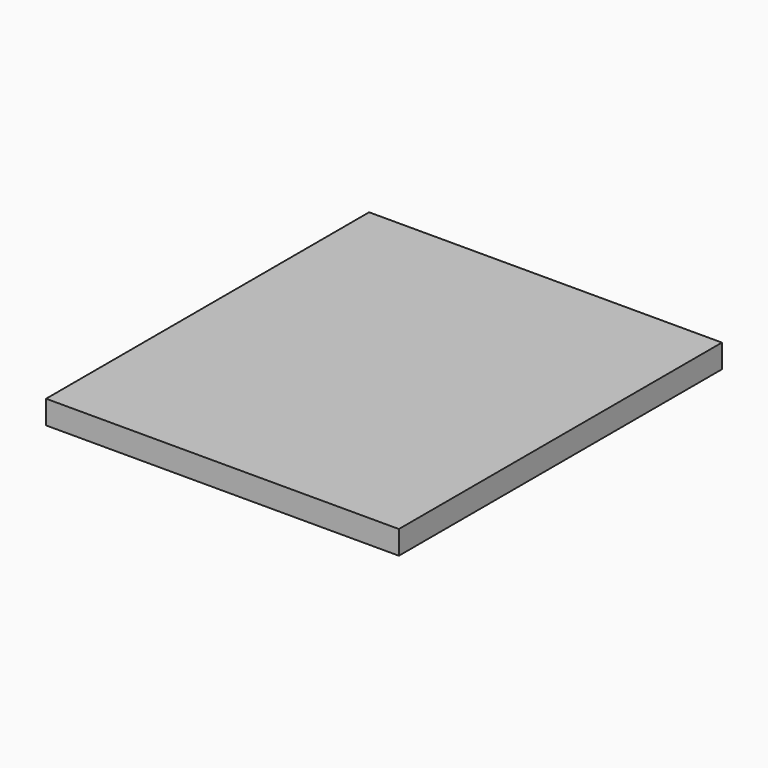
from build123d import *

# Parameters (mm, degrees)
F0_W     = 180
F0_H     = 206
F1_DEPTH = 6
F2_DEPTH = 6


with BuildPart() as f1:
    # F0 (on Top) → F1 (new body, symmetric)
    with BuildSketch(Plane.XY):
        with Locations((90, 103)):
            Rectangle(F0_W, F0_H)
    extrude(amount=F1_DEPTH, both=True)

    # F0 (on Top) → F2 (join, symmetric)
    with BuildSketch(Plane.XY):
        with Locations((90, 103)):
            Rectangle(F0_W, F0_H)
    extrude(amount=F2_DEPTH, both=True)


solid = f1.part
